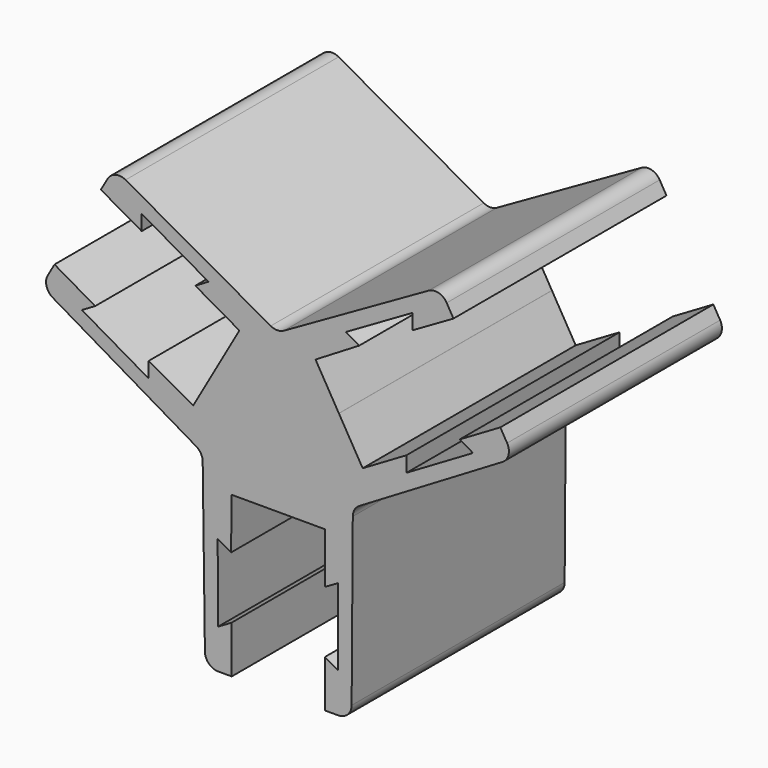
from build123d import *

# Parameters (mm, degrees)
F1_DEPTH = 50
F2_R     = 5


with BuildPart() as f1:
    # F0 (on Front) → F1 (new body, symmetric)
    with BuildSketch(Plane.XZ):
        Polygon((-0.3844457437, -3.9193866888), (-0.2793621445, -36.505025424), (22.7418729728, -23.1225547895), (13.9738415908, -8.1774247233), (30.3711793503, 1.7483630998), (25.3897522477, 4.6441157203), (50.4170887233, 19.1110288298), (50.4401684665, 13.3491310051), (65.7776050478, 22.2148851249), (60.7350544202, 30.8505106451), align=None)
        Polygon((17.5, -123.0721495214), (27.5, -123.037298633), (27.984935295, -52.6923507797), (-0.2342032741, -36.5308884878), (-0.2791942974, -36.5570735524), (-0.1934906356, -63.1331385759), (17.5, -63.1331385759), (17.5, -82.1851273198), (22.5, -79.3215632439), (22.5, -108.2293328912), (17.5, -105.3657688153), align=None)
        Polygon((-0.2342032741, -36.5308884878), (27.984935295, -52.6923507797), (88.4134229436, -16.6778435467), (83.383241189, -8.0350149531), (68.1111457371, -16.9948708792), (73.1111457371, -19.8584349551), (48.177635909, -34.4864639964), (48.1173945898, -28.7248348691), (31.6846862078, -38.3656009344), (22.7576654977, -23.1494731853), align=None)
        Polygon((-28.437719404, -52.9455160273), (-0.2791942974, -36.5570735524), (-0.2793621445, -36.505025424), (-28.4386696044, -52.8743080992), align=None)
        Polygon((-0.1934906356, -63.1331385759), (-0.2791942974, -36.5570735524), (-28.437719404, -52.9455160273), (-27.5000461582, -123.2146651978), (-17.5, -123.1941276305), (-17.6142288143, -105.4790067228), (-22.5956559169, -108.3747593432), (-22.7821000687, -79.4675909492), (-17.7637351614, -82.2988473619), (-17.5, -63.1331385759), align=None)
        Polygon((-23.3863139494, -23.2713780056), (-0.2793621445, -36.505025424), (-0.3844457437, -3.9193866888), (-61.6838213467, 30.4314342204), (-66.6537935401, 21.7534859335), (-51.3193782423, 13.020972349), (-51.333461035, 18.7828991875), (-26.2133390001, 4.4777038049), (-31.1759859876, 1.5498830975), (-14.6202887445, -7.8781158361), align=None)
        Polygon((-28.4386696044, -52.8743080992), (-0.2793621445, -36.505025424), (-23.3863139494, -23.2713780056), (-31.940263426, -38.2922322466), (-48.7252915524, -29.0371374173), (-48.7483712957, -34.799035242), (-73.7757077712, -20.3321221324), (-68.7942806687, -17.436369512), (-84.0481037191, -8.6182985245), (-89.0185419933, -17.2970606238), align=None)
        Polygon((-0.2793621445, -36.505025424), (-0.2342032741, -36.5308884878), (22.7576654977, -23.1494731853), (22.7418729728, -23.1225547895), align=None)
        Polygon((-0.2791942974, -36.5570735524), (-0.2342032741, -36.5308884878), (-0.2793621445, -36.505025424), align=None)
    extrude(amount=F1_DEPTH, both=True)

    # F2
    f2_edges = [f1.edges().sort_by_distance(p)[0] for p in [
        (-61.683821, 0, 30.431434),
        (60.735054, 0, 30.850511),
        (-0.384446, 0, -3.919387),
        (88.413423, 0, -16.677844),
        (27.5, 0, -123.037299),
        (27.984935, 0, -52.692351),
        (-27.500046, 0, -123.214665),
        (-28.43867, 0, -52.874308),
        (-89.018542, 0, -17.297061),
    ]]
    fillet(f2_edges, radius=F2_R)


solid = f1.part
